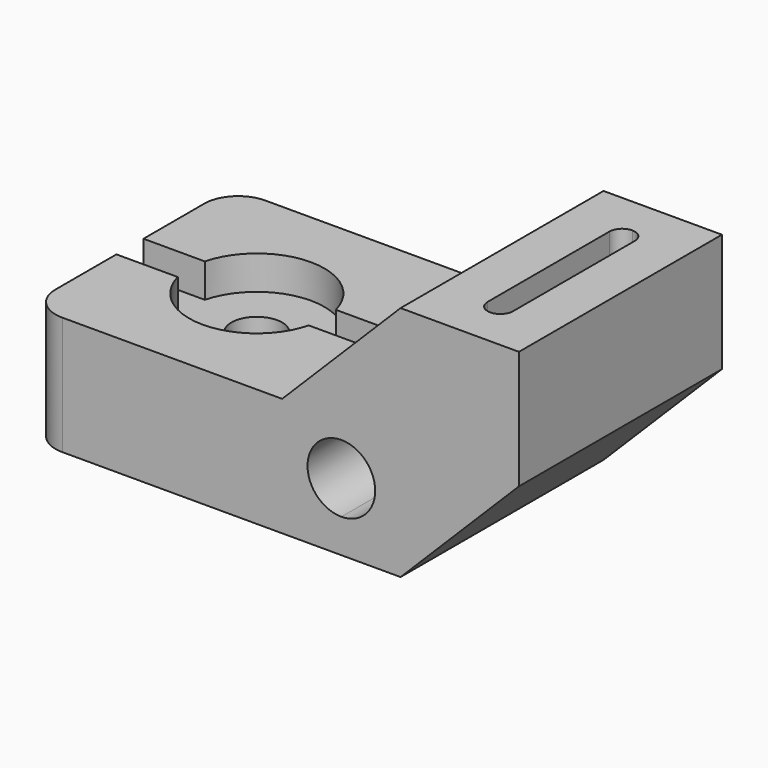
from build123d import *

# Parameters (mm, degrees)
F1_DEPTH = 76.2
F3_DEPTH = 177.8
F5_DEPTH = 27.94
F7_DEPTH = 10.16
F8_R     = 7.62
F9_DEPTH = 152.4
F10_R    = 10.16


with BuildPart() as f1:
    # F0 (on Front) → F1 (new body)
    with BuildSketch(Plane.XZ):
        Polygon((0, 35.56), (0, 0), (111.76, 0), (147.32, 35.56), (147.32, 71.12), (111.76, 71.12), (76.2, 35.56), align=None)
    extrude(amount=F1_DEPTH)

    # F2 (on face) → F3 (cut)
    with BuildSketch(Plane.XZ.offset(76.2)):
        with BuildLine():
            ThreePointArc((104.14, 20.32), (101.1642048969, 27.5042048969), (93.98, 30.48))
            Line((93.98, 30.48), (93.98, 20.32))
            Line((93.98, 20.32), (93.98, 10.16))
            ThreePointArc((93.98, 10.16), (101.1642048969, 13.1357951031), (104.14, 20.32))
        make_face()
        with BuildLine():
            Line((93.98, 20.32), (93.98, 30.48))
            ThreePointArc((93.98, 30.48), (83.82, 20.32), (93.98, 10.16))
            Line((93.98, 10.16), (93.98, 20.32))
        make_face()
    extrude(amount=-F3_DEPTH, mode=Mode.SUBTRACT)

    # F4 (on face) → F5 (cut)
    with BuildSketch(Plane.XY.offset(71.12)):
        with BuildLine():
            ThreePointArc((133.35, -15.24), (132.2340768363, -12.5459231637), (129.54, -11.43))
            Line((129.54, -11.43), (129.54, -15.24))
            Line((129.54, -15.24), (133.35, -15.24))
        make_face()
        with BuildLine():
            Line((129.54, -15.24), (129.54, -11.43))
            ThreePointArc((129.54, -11.43), (126.8459231637, -12.5459231637), (125.73, -15.24))
            Line((125.73, -15.24), (129.54, -15.24))
        make_face()
        with BuildLine():
            Line((133.35, -15.24), (129.54, -15.24))
            Line((129.54, -15.24), (129.54, -19.05))
            ThreePointArc((129.54, -19.05), (132.2340768363, -17.9340768363), (133.35, -15.24))
        make_face()
        with BuildLine():
            Line((129.54, -19.05), (129.54, -15.24))
            Line((129.54, -15.24), (125.73, -15.24))
            ThreePointArc((125.73, -15.24), (126.8459231637, -17.9340768363), (129.54, -19.05))
        make_face()
        with BuildLine():
            Line((133.35, -60.96), (133.35, -15.24))
            ThreePointArc((133.35, -15.24), (132.2340768363, -17.9340768363), (129.54, -19.05))
            Line((129.54, -19.05), (129.54, -57.15))
            ThreePointArc((129.54, -57.15), (132.2340768363, -58.2659231637), (133.35, -60.96))
        make_face()
        with BuildLine():
            ThreePointArc((129.54, -19.05), (126.8459231637, -17.9340768363), (125.73, -15.24))
            Line((125.73, -15.24), (125.73, -60.96))
            ThreePointArc((125.73, -60.96), (126.8459231637, -58.2659231637), (129.54, -57.15))
            Line((129.54, -57.15), (129.54, -19.05))
        make_face()
        with BuildLine():
            Line((129.54, -60.96), (133.35, -60.96))
            ThreePointArc((133.35, -60.96), (132.2340768363, -58.2659231637), (129.54, -57.15))
            Line((129.54, -57.15), (129.54, -60.96))
        make_face()
        with BuildLine():
            ThreePointArc((129.54, -64.77), (132.2340768363, -63.6540768363), (133.35, -60.96))
            Line((133.35, -60.96), (129.54, -60.96))
            Line((129.54, -60.96), (129.54, -64.77))
        make_face()
        with BuildLine():
            Line((129.54, -60.96), (125.73, -60.96))
            ThreePointArc((125.73, -60.96), (126.8459231637, -63.6540768363), (129.54, -64.77))
            Line((129.54, -64.77), (129.54, -60.96))
        make_face()
        with BuildLine():
            ThreePointArc((129.54, -57.15), (126.8459231637, -58.2659231637), (125.73, -60.96))
            Line((125.73, -60.96), (129.54, -60.96))
            Line((129.54, -60.96), (129.54, -57.15))
        make_face()
    extrude(amount=-F5_DEPTH, mode=Mode.SUBTRACT)

    # F6 (on face) → F7 (cut)
    with BuildSketch(Plane.XY.offset(35.56)):
        with BuildLine():
            Line((18.4252446013, -33.02), (0, -33.02))
            Line((0, -33.02), (0, -38.1))
            Line((0, -38.1), (17.78, -38.1))
            ThreePointArc((17.78, -38.1), (17.9419565719, -35.5395927768), (18.4252446013, -33.02))
        make_face()
        with BuildLine():
            Line((17.78, -38.1), (0, -38.1))
            Line((0, -38.1), (0, -43.18))
            Line((0, -43.18), (18.4252446013, -43.18))
            ThreePointArc((18.4252446013, -43.18), (17.9419565719, -40.6604072232), (17.78, -38.1))
        make_face()
        with BuildLine():
            ThreePointArc((57.7747553987, -33.02), (38.1, -17.78), (18.4252446013, -33.02))
            Line((18.4252446013, -33.02), (57.7747553987, -33.02))
        make_face()
        with BuildLine():
            Line((57.7747553987, -33.02), (18.4252446013, -33.02))
            ThreePointArc((18.4252446013, -33.02), (17.9419565719, -35.5395927768), (17.78, -38.1))
            Line((17.78, -38.1), (58.42, -38.1))
            ThreePointArc((58.42, -38.1), (58.2580434281, -35.5395927768), (57.7747553987, -33.02))
        make_face()
        with BuildLine():
            Line((58.42, -38.1), (17.78, -38.1))
            ThreePointArc((17.78, -38.1), (17.9419565719, -40.6604072232), (18.4252446013, -43.18))
            Line((18.4252446013, -43.18), (57.7747553987, -43.18))
            ThreePointArc((57.7747553987, -43.18), (58.2580434281, -40.6604072232), (58.42, -38.1))
        make_face()
        with BuildLine():
            Line((76.2, -33.02), (57.7747553987, -33.02))
            ThreePointArc((57.7747553987, -33.02), (58.2580434281, -35.5395927768), (58.42, -38.1))
            Line((58.42, -38.1), (76.2, -38.1))
            Line((76.2, -38.1), (76.2, -33.02))
        make_face()
        with BuildLine():
            Line((57.7747553987, -43.18), (18.4252446013, -43.18))
            ThreePointArc((18.4252446013, -43.18), (38.1, -58.42), (57.7747553987, -43.18))
        make_face()
        with BuildLine():
            Line((76.2, -38.1), (58.42, -38.1))
            ThreePointArc((58.42, -38.1), (58.2580434281, -40.6604072232), (57.7747553987, -43.18))
            Line((57.7747553987, -43.18), (76.2, -43.18))
            Line((76.2, -43.18), (76.2, -38.1))
        make_face()
    extrude(amount=-F7_DEPTH, mode=Mode.SUBTRACT)

    # F8 (on face) → F9 (cut)
    with BuildSketch(Plane.XY.offset(25.4)):
        with Locations((38.1, -38.1)):
            Circle(F8_R)
    extrude(amount=-F9_DEPTH, mode=Mode.SUBTRACT)

    # F10
    f10_edges = [f1.edges().sort_by_distance(p)[0] for p in [
        (0, -76.2, 17.78),
        (0, 0, 17.78),
    ]]
    fillet(f10_edges, radius=F10_R)


solid = f1.part
